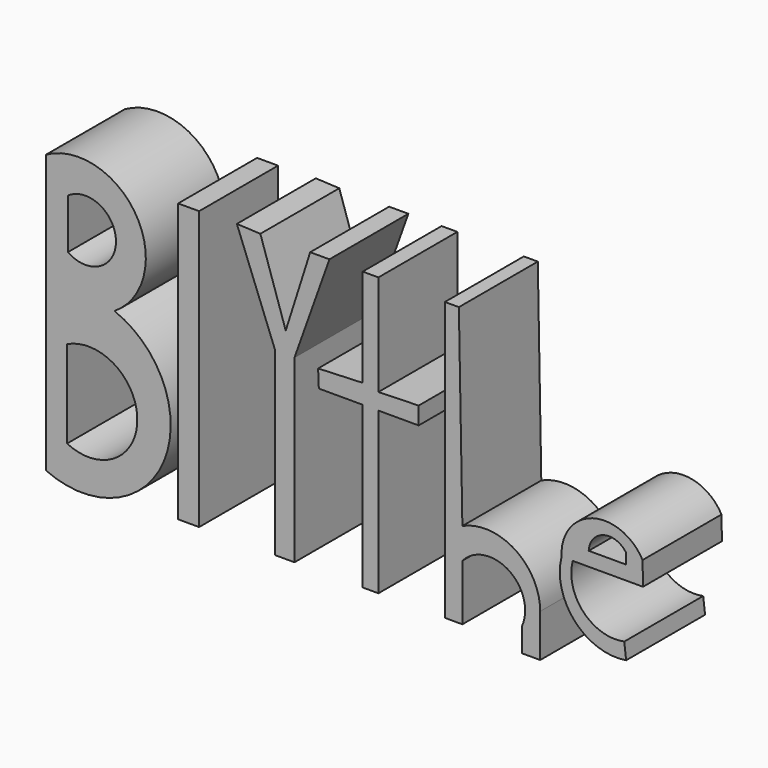
from build123d import *

# Parameters (mm, degrees)
F1_DEPTH = 25
F0_W     = 5.3192265332
F0_H     = 70.4797282815


with BuildPart() as f1:
    # F0 (on Front) → F1 (new body)
    with BuildSketch(Plane.XZ):
        with BuildLine():
            ThreePointArc((-54.4818983576, 14.4186617885), (-48.9051859477, 37.478036073), (-71.8095302582, 43.6607114971))
            Line((-71.8095302582, 43.6607114971), (-71.8095302582, 13.9617044479))
            ThreePointArc((-71.8095302582, 13.9617044479), (-63.1917663129, 15.9364559562), (-54.4818983576, 14.4186617885))
        make_face()
        with BuildLine():
            Line((-66.2686675787, 23.7136147916), (-66.2686675787, 36.3467745483))
            ThreePointArc((-66.2686675787, 36.3467745483), (-54.0896159927, 30.03019467), (-66.2686675787, 23.7136147916))
        make_face(mode=Mode.SUBTRACT)
        with BuildLine():
            ThreePointArc((-54.4818983576, 14.4186617885), (-63.1917663129, 15.9364559562), (-71.8095302582, 13.9617044479))
            ThreePointArc((-71.8095302582, 13.9617044479), (-63.0831040963, 11.8160299913), (-54.4818983576, 14.4186617885))
        make_face()
        with BuildLine():
            ThreePointArc((-54.4818983576, 14.4186617885), (-63.0831040963, 11.8160299913), (-71.8095302582, 13.9617044479))
            Line((-71.8095302582, 13.9617044479), (-71.8095302582, -26.8190167844))
            ThreePointArc((-71.8095302582, -26.8190167844), (-41.9759547282, -15.0954842688), (-54.4818983576, 14.4186617885))
        make_face()
        with BuildLine():
            Line((-66.4903074503, -19.0618149936), (-66.4903074503, 3.1016212888))
            ThreePointArc((-66.4903074503, 3.1016212888), (-48.6828408255, -7.9800968524), (-66.4903074503, -19.0618149936))
        make_face(mode=Mode.SUBTRACT)
    extrude(amount=F1_DEPTH)


with BuildPart() as f1b:
    # F0 (on Front) → F1, piece 2 (new body)
    with BuildSketch(Plane.XZ):
        with Locations((-35.6831308454, 8.4208473563)):
            Rectangle(F0_W, F0_H)
    extrude(amount=F1_DEPTH)


with BuildPart() as f1c:
    # F0 (on Front) → F1, piece 3 (new body)
    with BuildSketch(Plane.XZ):
        Polygon((-11.0817169771, 24.156883359), (-17.5091139972, 43.6607114971), (-23.459102025, 43.9413224618), (-13.7413293123, 18.8376605511), (-13.7413293123, -26.8190167844), (-8.8653741404, -26.8190167844), (-8.8653741404, 18.8376605511), (0, 43.6607114971), (-4.8759565689, 43.6607114971), align=None)
    extrude(amount=F1_DEPTH)


with BuildPart() as f1d:
    # F0 (on Front) → F1, piece 4 (new body)
    with BuildSketch(Plane.XZ):
        Polygon((12.4115217477, 43.6607114971), (8.4221055731, 43.6607114971), (8.4221055731, 18.8376605511), (-2.8717121823, 18.3804786922), (-2.6924200742, 13.9514044519), (8.4221055731, 13.9514044519), (8.4221055731, -26.8190167844), (12.4115217477, -26.8190167844), (12.4115217477, 13.9514044519), (22.6067043841, 13.9514044519), (22.6067043841, 18.3804786922), (12.4115217477, 18.0900685123), align=None)
    extrude(amount=F1_DEPTH)


with BuildPart() as f1e:
    # F0 (on Front) → F1, piece 5 (new body)
    with BuildSketch(Plane.XZ):
        with BuildLine():
            Line((32.8018814325, 43.6607114971), (29.2557347566, 43.6607114971))
            Line((29.2557347566, 43.6607114971), (29.2557347566, -26.8190167844))
            Line((29.2557347566, -26.8190167844), (33.6884222925, -26.8190167844))
            Line((33.6884222925, -26.8190167844), (33.6884222925, -12.6344179735))
            ThreePointArc((33.6884222925, -12.6344179735), (45.4626689986, -10.9596878338), (48.7595573068, -22.3863292485))
            Line((48.7595573068, -22.3863292485), (48.7595573068, -24.1594035178))
            Line((48.7595573068, -24.1594035178), (48.7595573068, -28.3704567701))
            Line((48.7595573068, -28.3704567701), (53.4138828516, -28.3704567701))
            Line((53.4138828516, -28.3704567701), (53.4138828516, -17.5103731453))
            ThreePointArc((53.4138828516, -17.5103731453), (47.0066920572, -5.7983017991), (33.6884222925, -4.877215717))
            Line((33.6884222925, -4.877215717), (32.8018814325, 43.6607114971))
        make_face()
    extrude(amount=F1_DEPTH)


with BuildPart() as f1f:
    # F0 (on Front) → F1, piece 6 (new body)
    with BuildSketch(Plane.XZ):
        with BuildLine():
            ThreePointArc((79.3531718945, 2.3786725415), (66.7206313165, 7.6005529037), (58.8253028691, -3.5579821561))
            Line((58.8253028691, -3.5579821561), (61.6716891527, -3.5579821561))
            Line((61.6716891527, -3.5579821561), (79.4616043568, -3.5579821561))
            Line((79.4616043568, -3.5579821561), (79.3531718945, 2.3786725415))
        make_face()
        with BuildLine():
            Line((75.1920193434, 0), (65.7040700316, 0))
            ThreePointArc((65.7040700316, 0), (69.5029158711, 4.7414244812), (75.1920193434, 2.6091868058))
            Line((75.1920193434, 2.6091868058), (75.1920193434, 0))
        make_face(mode=Mode.SUBTRACT)
        with BuildLine():
            Line((61.6716891527, -3.5579821561), (58.8253028691, -3.5579821561))
            ThreePointArc((58.8253028691, -3.5579821561), (62.1957480127, -16.8808173187), (75.1920193434, -21.347893402))
            Line((75.1920193434, -21.347893402), (74.7176259756, -17.3155125231))
            ThreePointArc((74.7176259756, -17.3155125231), (64.3439238342, -14.0883059858), (61.6716891527, -3.5579821561))
        make_face()
    extrude(amount=F1_DEPTH)


solid = Compound([f1.part, f1b.part, f1c.part, f1d.part, f1e.part, f1f.part])
